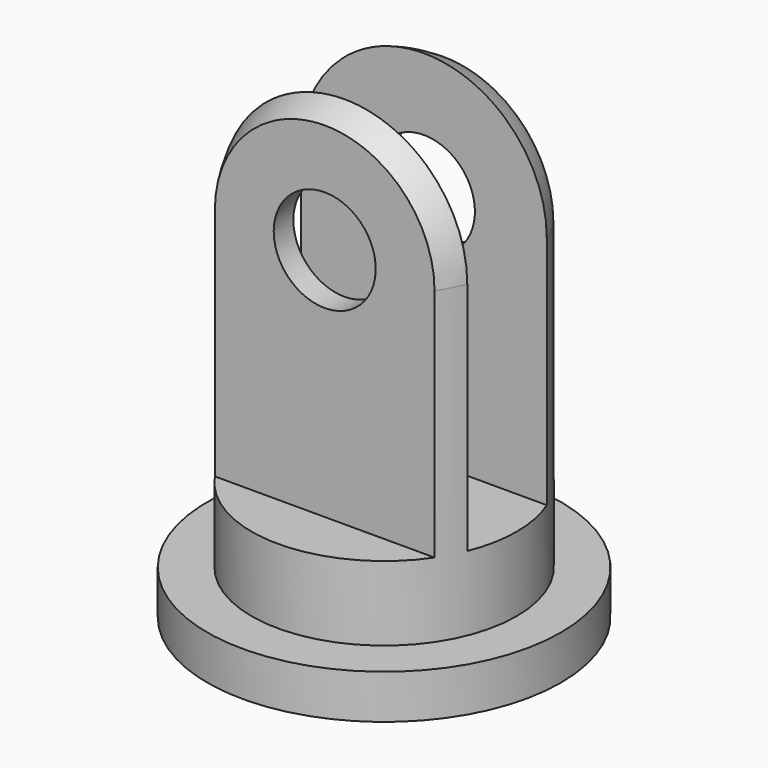
from build123d import *

# Parameters (mm, degrees)
F0_R     = 4
F1_DEPTH = 1
F2_R     = 3
F3_DEPTH = 10
F4_R     = 3
F5_W     = 2.2492834833
F5_H     = 10.7352328487
F5_W_2   = 1.4565391466
F6_DEPTH = 12.5
F7_R     = 1.1538217461
F8_DEPTH = 25


with BuildPart() as f1:
    # F0 (on Top) → F1 (new body)
    with BuildSketch(Plane.XY):
        Circle(F0_R)
    extrude(amount=F1_DEPTH)

    # F2 (on face) → F3 (join)
    with BuildSketch(Plane.XY.offset(1)):
        Circle(F2_R)
    extrude(amount=F3_DEPTH)

    # F4
    f4_edges = [f1.edges().sort_by_distance(p)[0] for p in [
        (-3, 0, 11),
    ]]
    fillet(f4_edges, radius=F4_R)

    # F5 (on Right) → F6 (cut, symmetric)
    with BuildSketch(Plane.YZ):
        with Locations((0, 8.051795885)):
            Rectangle(F5_W, F5_H)
        with Locations((-2.4088141508, 8.051795885)):
            Rectangle(F5_W_2, F5_H)
        with Locations((2.4088141508, 8.051795885)):
            Rectangle(F5_W_2, F5_H)
    extrude(amount=F6_DEPTH, both=True, mode=Mode.SUBTRACT)

    # F7 (on face) → F8 (cut)
    with BuildSketch(Plane(origin=(0, 1.6805445775, 0), x_dir=(-1, 0, 0), z_dir=(0, 1, 0))):
        with Locations((0, 8)):
            Circle(F7_R)
    extrude(amount=-F8_DEPTH, mode=Mode.SUBTRACT)


solid = f1.part
